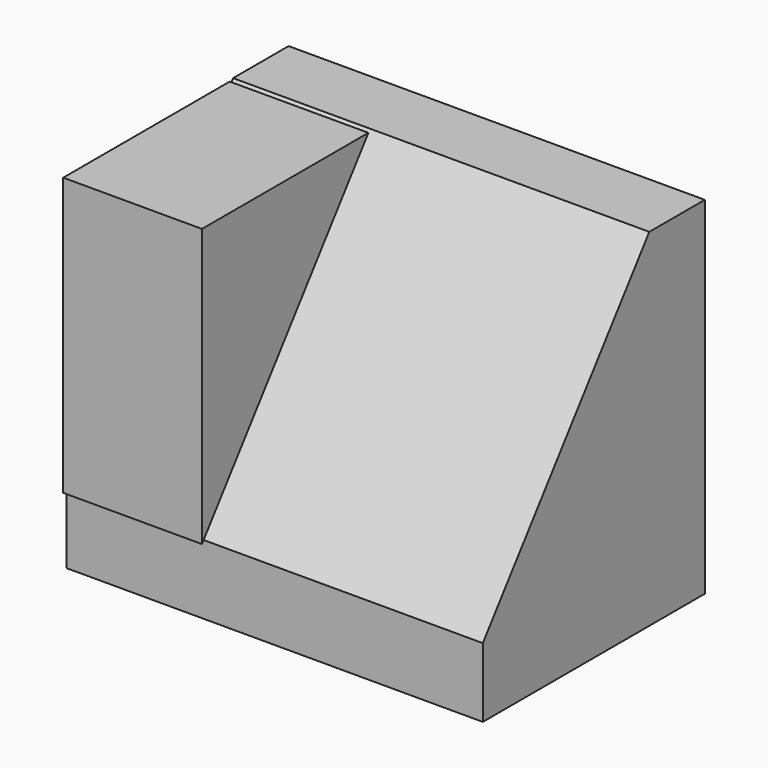
from build123d import *

# Parameters (mm, degrees)
F1_DEPTH = 25.4
F3_DEPTH = 12.7
F4_DEPTH = 12.7


with BuildPart() as f1:
    # F0 (on Right) → F1 (new body)
    with BuildSketch(Plane.YZ):
        Polygon((0, 6.35), (0, 0), (25.4, 0), (25.4, 31.75), (19.05, 31.75), align=None)
    extrude(amount=F1_DEPTH)

    # F1_face (on face) → F4 (join)
    with BuildSketch(Plane(origin=(25.4, 15.421429, 12.7), x_dir=(0, 1, 0), z_dir=(1, 0, 0))):
        Polygon((-15.421429, -6.35), (-15.421429, -12.7), (9.978571, -12.7), (9.978571, 19.05), (3.628571, 19.05), align=None)
    extrude(amount=F4_DEPTH)


with BuildPart() as f3:
    # F2 (on Right) → F3 (new body)
    with BuildSketch(Plane.YZ):
        Polygon((-0.389343, 31.629489), (-0.389343, 6.229489), (18.660657, 31.629489), align=None)
    extrude(amount=F3_DEPTH)


solid = Compound([f1.part, f3.part])
